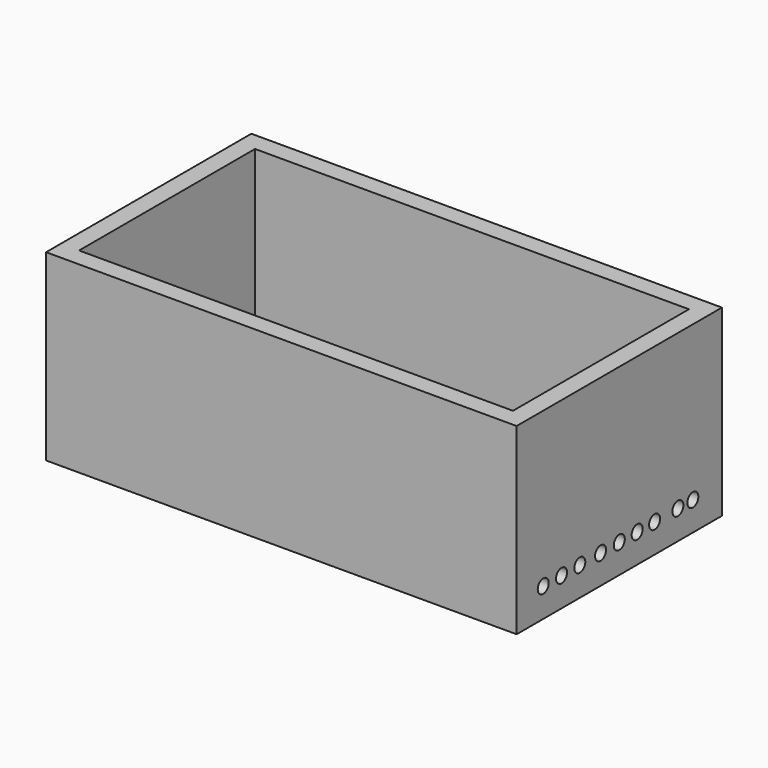
from build123d import *

# Parameters (mm, degrees)
F0_W     = 130.376012
F0_H     = 71.088024
F1_DEPTH = 50.8
F2_T     = -5.08
F4_D     = 3.81


with BuildPart() as f1:
    # F0 (on Top) → F1 (new body)
    with BuildSketch(Plane.XY):
        Rectangle(F0_W, F0_H)
    extrude(amount=F1_DEPTH)

    # F2
    f2_openings = [f1.faces().sort_by_distance(p)[0] for p in [
        (0, 0, 50.8),
    ]]
    offset(amount=F2_T, openings=f2_openings)

    # F4 (through all)
    with Locations(Plane.YZ.offset(65.188006)):
        with Locations((-26.334226, 8.001857), (-20.002501, 8.001857), (-13.670773, 8.001857), (-6.475631, 8.001857), (0, 8.001857), (6.187825, 8.001857), (12.231745, 8.001857), (20.290304, 8.001857), (25.470806, 8.001857)):
            Hole(F4_D / 2)


solid = f1.part
